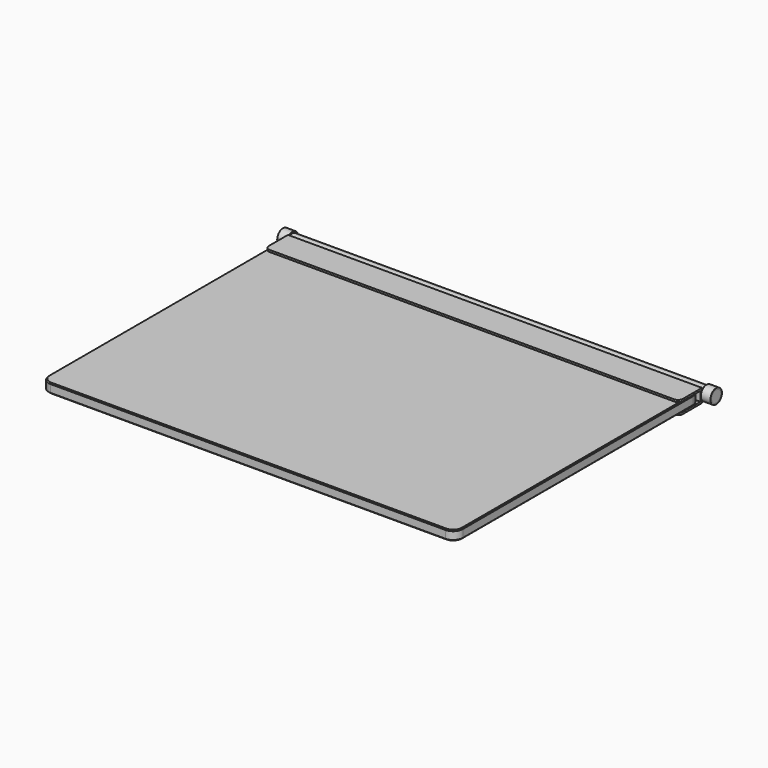
from build123d import *

# Parameters (mm, degrees)
F0_W     = 432
F0_H     = 320
F1_DEPTH = 10
F2_R     = 10
F4_DEPTH = 216
F5_R     = 6
F6_DEPTH = 226
F7_R     = 7.5
F7_R_2   = 6
F8_DEPTH = 10
F10_SIZE = 1
F11_R    = 5


with BuildPart() as f1:
    # F0 (on Top) → F1 (new body)
    with BuildSketch(Plane.XY):
        Rectangle(F0_W, F0_H)
    extrude(amount=F1_DEPTH)

    # F2
    f2_edges = [f1.edges().sort_by_distance(p)[0] for p in [
        (216, -160, 5),
        (-216, -160, 5),
        (216, 160, 5),
        (-216, 160, 5),
    ]]
    fillet(f2_edges, radius=F2_R)

    # F10
    f10_edges = [f1.edges().sort_by_distance(p)[0] for p in [
        (-216, 0, 10),
        (-213.071068, 157.071068, 10),
        (-213.071068, -157.071068, 10),
        (0, 160, 10),
        (0, -160, 10),
        (213.071068, 157.071068, 10),
        (213.071068, -157.071068, 10),
        (216, 0, 10),
        (-216, 0, 0),
        (-213.071068, 157.071068, 0),
        (-213.071068, -157.071068, 0),
        (0, 160, 0),
        (0, -160, 0),
        (213.071068, 157.071068, 0),
        (213.071068, -157.071068, 0),
        (216, 0, 0),
    ]]
    chamfer(f10_edges, length=F10_SIZE)


with BuildPart() as f4:
    # F3 (on Right) → F4 (new body, symmetric)
    with BuildSketch(Plane.YZ):
        Polygon((132, 12), (132, 10), (160, 10), (160, 0), (132, 0), (132, -2), (162, -2), (162, 12), align=None)
    extrude(amount=F4_DEPTH, both=True)

    # F11
    f11_edges = [f4.edges().sort_by_distance(p)[0] for p in [
        (-216, 132, 11),
        (-216, 132, -1),
        (216, 132, 11),
        (216, 132, -1),
    ]]
    fillet(f11_edges, radius=F11_R)


with BuildPart() as f6:
    # F5 (on Right) → F6 (new body, symmetric)
    with BuildSketch(Plane.YZ):
        with Locations((168, 5)):
            Circle(F5_R)
    extrude(amount=F6_DEPTH, both=True)


with BuildPart() as f8:
    # F7 (on face) → F8 (new body)
    with BuildSketch(Plane.YZ.offset(226)):
        with Locations((168, 5)):
            Circle(F7_R)
        with Locations((168, 5)):
            Circle(F7_R_2, mode=Mode.SUBTRACT)
    extrude(amount=-F8_DEPTH)


with BuildPart() as f9_1:
    # F9: instance of F8
    add(f8.part.mirror(Plane.YZ))


solid = Compound([f1.part, f4.part, f6.part, f8.part, f9_1.part])
